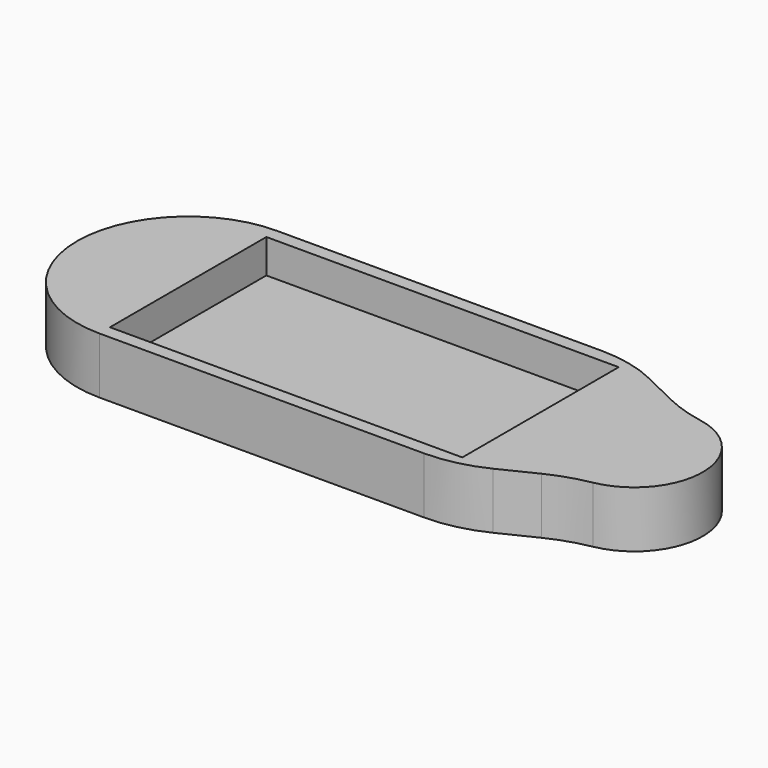
from build123d import *

# Parameters (mm, degrees)
F1_DEPTH = 25.4
F2_W     = 396.535074
F2_H     = 220
F3_DEPTH = 38.1
F4_R     = 177.372541
F5_R     = 149.724354
F6_R     = 177.3682
F7_R     = 149.733


with BuildPart() as f1:
    # F0 (on Top) → F1 (new body)
    with BuildSketch(Plane.XY):
        with BuildLine():
            ThreePointArc((-202.424236, 250), (-327.424236, 125), (-202.424236, 0))
            Line((-202.424236, 0), (197.575764, 0))
            Line((197.575764, 0), (296.114177, 48.089784))
            ThreePointArc((296.114177, 48.089784), (376.654646, 125), (296.114177, 201.910216))
            Line((296.114177, 201.910216), (197.575764, 250))
            Line((197.575764, 250), (-202.424236, 250))
        make_face()
    extrude(amount=F1_DEPTH)

    # F2 (on face) → F3 (join)
    with BuildSketch(Plane.XY.offset(25.4)):
        with BuildLine():
            Line((197.575764, 250), (-202.424236, 250))
            ThreePointArc((-202.424236, 250), (-327.424236, 125), (-202.424236, 0))
            Line((-202.424236, 0), (197.575764, 0))
            Line((197.575764, 0), (296.114177, 48.089784))
            ThreePointArc((296.114177, 48.089784), (376.654646, 125), (296.114177, 201.910216))
            Line((296.114177, 201.910216), (197.575764, 250))
        make_face()
        with Locations((-4.156699, 125)):
            Rectangle(F2_W, F2_H, mode=Mode.SUBTRACT)
    extrude(amount=F3_DEPTH)

    # F4
    f4_edges = [f1.edges().sort_by_distance(p)[0] for p in [
        (296.114177, 201.910216, 31.75),
    ]]
    fillet(f4_edges, radius=F4_R)

    # F5
    f5_edges = [f1.edges().sort_by_distance(p)[0] for p in [
        (197.575764, 250, 31.75),
    ]]
    fillet(f5_edges, radius=F5_R)

    # F6
    f6_edges = [f1.edges().sort_by_distance(p)[0] for p in [
        (296.114177, 48.089784, 31.75),
    ]]
    fillet(f6_edges, radius=F6_R)

    # F7
    f7_edges = [f1.edges().sort_by_distance(p)[0] for p in [
        (197.575764, 0, 31.75),
    ]]
    fillet(f7_edges, radius=F7_R)


solid = f1.part
